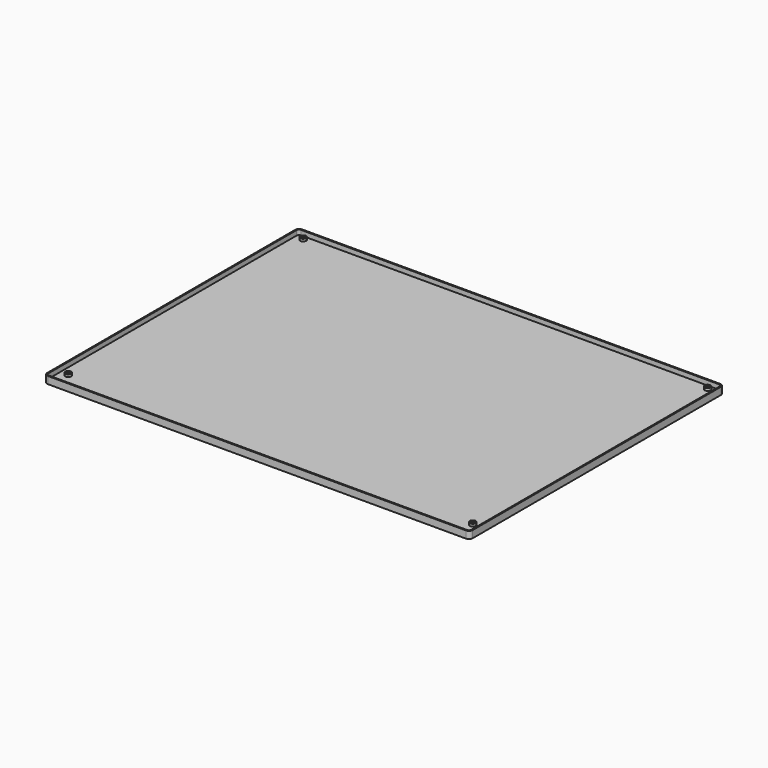
from build123d import *

# Parameters (mm, degrees)
F1_DEPTH       = 2
F2_R           = 2.5
F2_R_2         = 1.5
F3_DEPTH       = 2
F5_DEPTH       = 4
F7_D           = 3
F7_CBORE_D     = 5
F7_CBORE_DEPTH = 0.5


with BuildPart() as f1:
    # F0 (on Top) → F1 (new body)
    with BuildSketch(Plane.XY):
        with BuildLine():
            Line((-174.5, -132.5), (174.5, -132.5))
            ThreePointArc((174.5, -132.5), (176.62132, -131.62132), (177.5, -129.5))
            Line((177.5, -129.5), (177.5, 129.5))
            ThreePointArc((177.5, 129.5), (176.62132, 131.62132), (174.5, 132.5))
            Line((174.5, 132.5), (-174.5, 132.5))
            ThreePointArc((-174.5, 132.5), (-176.62132, 131.62132), (-177.5, 129.5))
            Line((-177.5, 129.5), (-177.5, -129.5))
            ThreePointArc((-177.5, -129.5), (-176.62132, -131.62132), (-174.5, -132.5))
        make_face()
    extrude(amount=F1_DEPTH)

    # F2 (on face) → F3 (join)
    with BuildSketch(Plane.XY.offset(2)):
        with Locations((-169.5, 127.5)):
            Circle(F2_R)
        with Locations((-169.5, 127.5)):
            Circle(F2_R_2, mode=Mode.SUBTRACT)
        with Locations((168, 127.5)):
            Circle(F2_R)
        with Locations((168, 127.5)):
            Circle(F2_R_2, mode=Mode.SUBTRACT)
        with Locations((-169.5, -117.5)):
            Circle(F2_R)
        with Locations((-169.5, -117.5)):
            Circle(F2_R_2, mode=Mode.SUBTRACT)
        with Locations((168, -117.5)):
            Circle(F2_R)
        with Locations((168, -117.5)):
            Circle(F2_R_2, mode=Mode.SUBTRACT)
    extrude(amount=F3_DEPTH)

    # F4 (on face) → F5 (join)
    with BuildSketch(Plane.XY.offset(2)):
        with BuildLine():
            Line((174.5, 132.5), (-174.5, 132.5))
            ThreePointArc((-174.5, 132.5), (-176.62132, 131.62132), (-177.5, 129.5))
            Line((-177.5, 129.5), (-177.5, -129.5))
            ThreePointArc((-177.5, -129.5), (-176.62132, -131.62132), (-174.5, -132.5))
            Line((-174.5, -132.5), (174.5, -132.5))
            ThreePointArc((174.5, -132.5), (176.62132, -131.62132), (177.5, -129.5))
            Line((177.5, -129.5), (177.5, 129.5))
            ThreePointArc((177.5, 129.5), (176.62132, 131.62132), (174.5, 132.5))
        make_face()
        with BuildLine():
            ThreePointArc((-176.5, 129.5), (-175.914214, 130.914214), (-174.5, 131.5))
            Line((-174.5, 131.5), (174.5, 131.5))
            ThreePointArc((174.5, 131.5), (175.914214, 130.914214), (176.5, 129.5))
            Line((176.5, 129.5), (176.5, -129.5))
            ThreePointArc((176.5, -129.5), (175.914214, -130.914214), (174.5, -131.5))
            Line((174.5, -131.5), (-174.5, -131.5))
            ThreePointArc((-174.5, -131.5), (-175.914214, -130.914214), (-176.5, -129.5))
            Line((-176.5, -129.5), (-176.5, 129.5))
        make_face(mode=Mode.SUBTRACT)
    extrude(amount=F5_DEPTH)

    # F7 (through all)
    with Locations(Plane(origin=(0, 0, 0), x_dir=(1, 0, 0), z_dir=(0, 0, -1))):
        with Locations((-169.5, -127.5), (168, -127.5), (168, 117.5), (-169.5, 117.5)):
            CounterBoreHole(F7_D / 2, F7_CBORE_D / 2, F7_CBORE_DEPTH)


solid = f1.part
